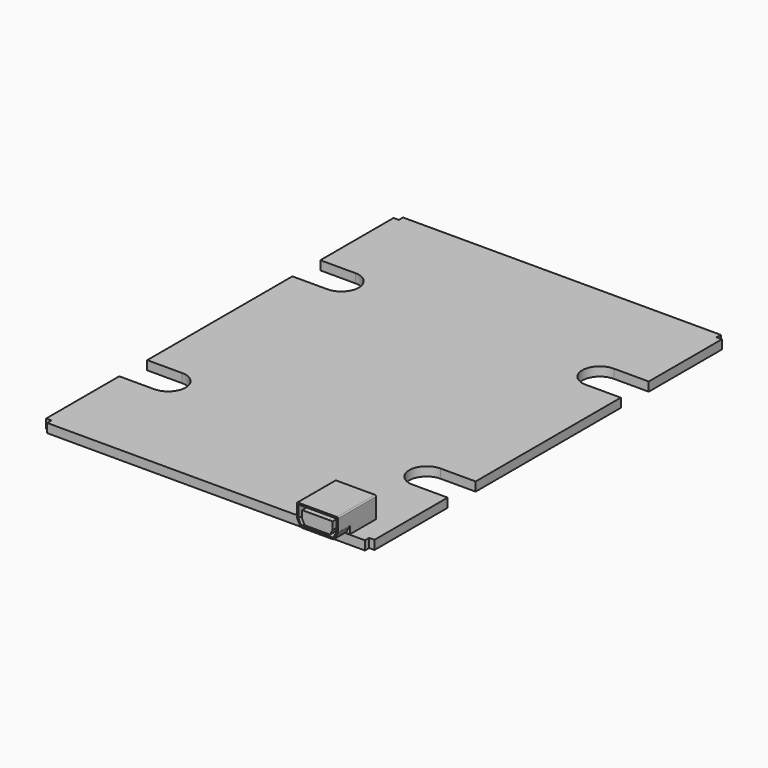
from build123d import *

# Parameters (mm, degrees)
PAD_DEPTH    = 1.7
SKETCH005_W  = 7.77
SKETCH005_H  = 9.03
PAD006_DEPTH = 3.96
POCKET_DEPTH = 2.8
FILLET_R     = 0.2
FILLET001_R  = 0.2
FILLET007_R  = 0.2
FILLET008_R  = 0.5
FILLET009_R  = 0.5


with BuildPart() as part:
    # Sketch → Pad (new body)
    with BuildSketch(Plane.XY):
        with BuildLine():
            Line((0, 0), (30, 0))
            Line((30, 0), (30, 1))
            Line((30, 1), (31, 1))
            Line((31, 1), (31, 18.27))
            Line((31, 18.27), (24.4, 18.27))
            ThreePointArc((24.4, 24.87), (21.1, 21.57), (24.4, 18.27))
            Line((24.4, 24.87), (31, 24.87))
            Line((31, 24.87), (31, 59.13))
            Line((31, 59.13), (24.4, 59.13))
            ThreePointArc((24.4, 65.73), (21.1, 62.43), (24.4, 59.13))
            Line((24.4, 65.73), (31, 65.73))
            Line((31, 65.73), (31, 83))
            Line((30, 83), (31, 83))
            Line((30, 84), (30, 83))
            Line((30, 84), (0, 84))
            Line((0, 84), (-30, 84))
            Line((-30, 84), (-30, 83))
            Line((-30, 83), (-31, 83))
            Line((-31, 83), (-31, 65.73))
            Line((-31, 65.73), (-24.4, 65.73))
            ThreePointArc((-24.4, 59.13), (-21.1, 62.43), (-24.4, 65.73))
            Line((-24.4, 59.13), (-31, 59.13))
            Line((-31, 59.13), (-31, 24.87))
            Line((-31, 24.87), (-24.4, 24.87))
            ThreePointArc((-24.4, 18.27), (-21.1, 21.57), (-24.4, 24.87))
            Line((-24.4, 18.27), (-31, 18.27))
            Line((-31, 18.27), (-31, 1))
            Line((-31, 1), (-30, 1))
            Line((-30, 1), (-30, 0))
            Line((-30, 0), (0, 0))
        make_face()
    extrude(amount=PAD_DEPTH)

    # Sketch005 → Pad006 (new body)
    with BuildSketch(Plane.XY.offset(1.7)):
        with Locations((23.185, 1.815)):
            Rectangle(SKETCH005_W, SKETCH005_H)
    extrude(amount=PAD006_DEPTH)

    # Sketch011 → Pocket (cut)
    with BuildSketch(Plane.XZ.offset(2.7)):
        Polygon((19.3, 3.1), (19.3, 1.7), (20.05, 1.7), align=None)
        Polygon((27.07, 3.1), (27.07, 1.7), (26.32, 1.7), align=None)
        Polygon((19.6, 5.36), (26.77, 5.36), (26.77, 3.09), (26.186071, 2), (20.183929, 2), (19.6, 3.09), align=None)
        Polygon((20.3, 4.66), (20.3, 3.233333), (20.8, 2.3), (25.57, 2.3), (26.07, 3.233333), (26.07, 4.66), align=None, mode=Mode.SUBTRACT)
    extrude(amount=-POCKET_DEPTH, mode=Mode.SUBTRACT)

    # Fillet
    fillet_edges = [part.edges().sort_by_distance(p)[0] for p in [
        (27.07, 1.815, 5.66),
    ]]
    fillet(fillet_edges, radius=FILLET_R)

    # Fillet001
    fillet001_edges = [part.edges().sort_by_distance(p)[0] for p in [
        (19.3, 1.815, 5.66),
    ]]
    fillet(fillet001_edges, radius=FILLET001_R)

    # Fillet007
    fillet007_edges = [part.edges().sort_by_distance(p)[0] for p in [
        (27.07, -1.3, 3.1),
    ]]
    fillet(fillet007_edges, radius=FILLET007_R)

    # Fillet008
    fillet008_edges = [part.edges().sort_by_distance(p)[0] for p in [
        (26.32, -1.35, 1.7),
    ]]
    fillet(fillet008_edges, radius=FILLET008_R)

    # Fillet009
    fillet009_edges = [part.edges().sort_by_distance(p)[0] for p in [
        (19.3, -1.3, 3.1),
        (20.05, -1.35, 1.7),
    ]]
    fillet(fillet009_edges, radius=FILLET009_R)


solid = part.part
